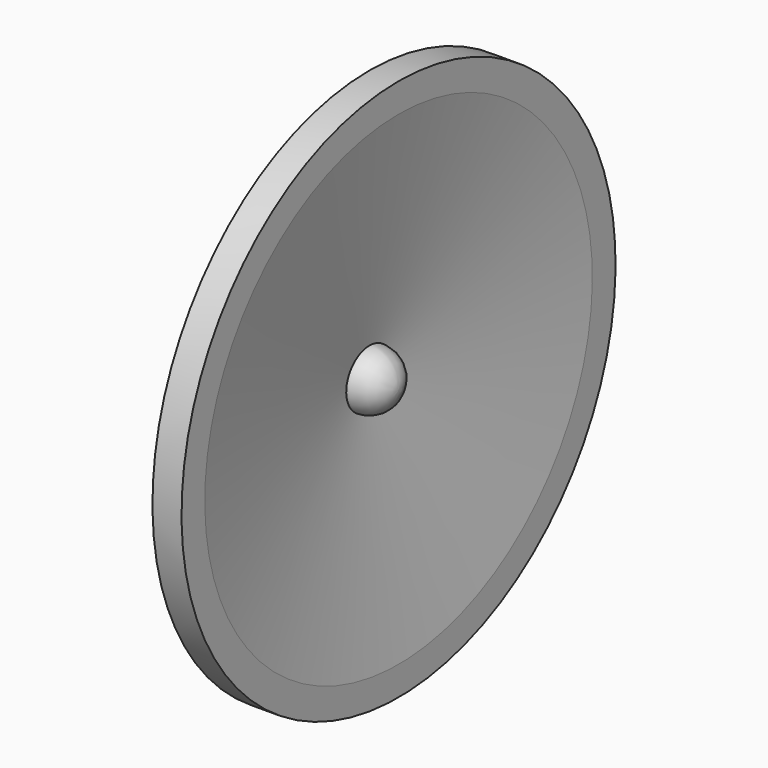
from build123d import *


with BuildPart() as f1:
    # F0 (on Front) → F1 (revolve)
    with BuildSketch(Plane.XZ):
        Polygon((0, 70), (0, 7.5), (7.5, 62.5), (7.5, 70), align=None)
        with BuildLine():
            Line((0, 7.5), (0, 0))
            Line((0, 0), (7.5, 0))
            ThreePointArc((7.5, 0), (5.303301, 5.303301), (0, 7.5))
        make_face()
    revolve(axis=Axis((3.75, 0, 0), (1, 0, 0)))


solid = f1.part
